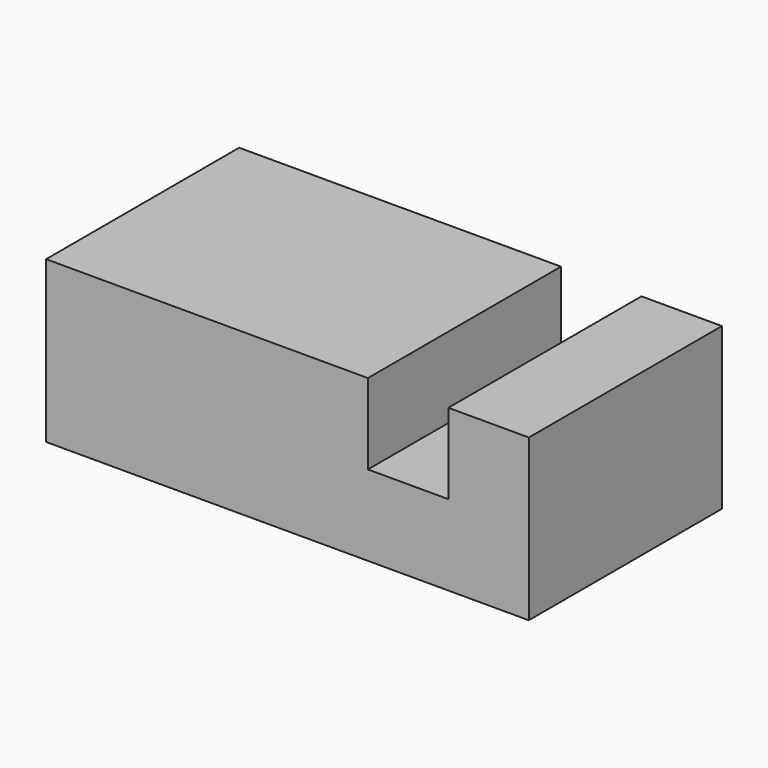
from build123d import *

# Parameters (mm, degrees)
F1_DEPTH = 38.1
F2_DEPTH = 38.1


with BuildPart() as f1:
    # F0 (on Front) → F1 (new body)
    with BuildSketch(Plane.XZ):
        Polygon((-101.6, 50.8), (-101.6, 0), (50.8, 0), (50.8, 50.8), (25.4, 50.8), (25.4, 25.4), (0, 25.4), (0, 50.8), align=None)
    extrude(amount=-F1_DEPTH)

    # F1_face (on face) → F2 (join)
    with BuildSketch(Plane(origin=(-28.863636, 0, 24.245455), x_dir=(1, 0, 0), z_dir=(0, -1, 0))):
        Polygon((-72.736364, -24.245455), (79.663636, -24.245455), (79.663636, 26.554545), (54.263636, 26.554545), (54.263636, 1.154545), (28.863636, 1.154545), (28.863636, 26.554545), (-72.736364, 26.554545), align=None)
    extrude(amount=F2_DEPTH)


solid = f1.part
